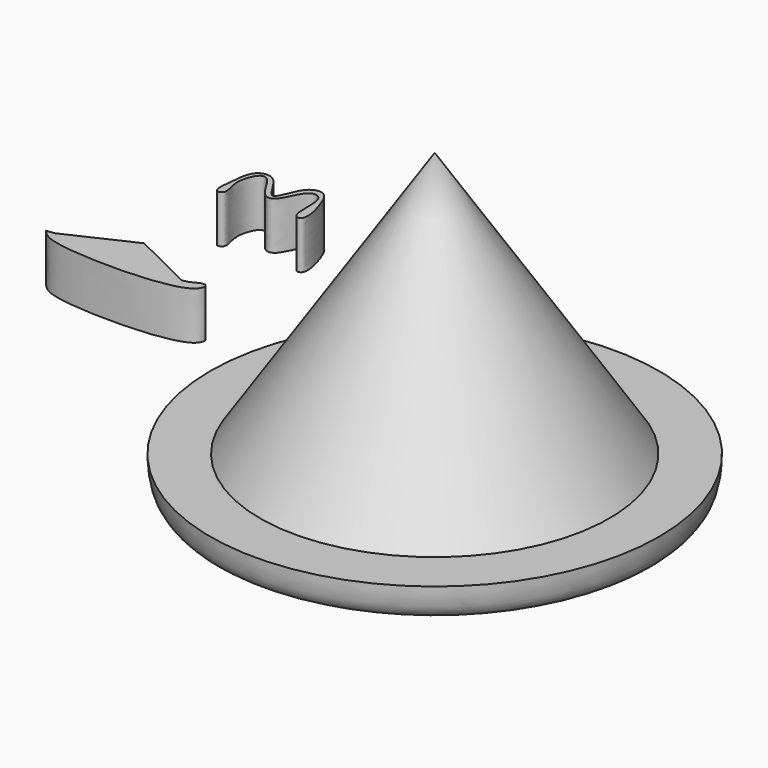
from build123d import *

# Parameters (mm, degrees)
F3_DEPTH = 11.4


with BuildPart() as f1:
    # F0 (on Front) → F1 (revolve)
    with BuildSketch(Plane.XZ):
        with BuildLine():
            Line((0, 63.2652342319), (-41.6990220547, 0))
            add(Edge.make_bspline(
                [(-53.5571835935, 0), (-49.6044630806, 0), (-45.6517425676, 0), (-41.6990220547, 0)],
                knots=[0, 0, 0, 0, 11.8581615388, 11.8581615388, 11.8581615388, 11.8581615388], degree=3))
            add(Edge.make_bspline(
                [(-53.5571835935, 0), (-53.4334371926, -2.6908141816), (-53.1402154716, -9.066798934), (-37.1676080808, -9.3806462258), (-23.1685894488, -10.1839054648), (-9.4873160883, -8.3321297601), (-2.9764906365, -6.8618515729), (0, -6.1896988191)],
                knots=[0, 0, 0, 0, 0.1580409291, 0.374483887, 0.6032630747, 0.8186276453, 1, 1, 1, 1], degree=3))
            Line((0, -6.1896988191), (0, 63.2652342319))
        make_face()
    revolve(axis=Axis((0, 0, 28.5377677064), (0, 0, -1)))


with BuildPart() as f3:
    # F2 (on Top) → F3 (new body)
    with BuildSketch(Plane.XY):
        with BuildLine():
            add(Edge.make_bspline(
                [(-84.3102112412, 40.4610857368), (-85.0529291227, 40.9958786506), (-84.5303607917, 45.7398508686), (-83.9514385702, 51.2382567246), (-78.3571226382, 52.0567477514), (-74.6691999848, 41.6802312333), (-72.6076012928, 51.9031212278), (-67.9525880261, 52.6750588018), (-66.0730074411, 49.2024115409), (-63.8207430634, 41.5170017131), (-67.5488511999, 41.120062853), (-66.6687651288, 48.7345215145), (-68.3108975024, 50.94301662), (-71.2826769252, 50.666767686), (-73.1011401395, 44.2158299469), (-76.825645086, 44.0279276792), (-79.3458870987, 50.2461534997), (-82.3364477721, 50.9255849083), (-84.3799730162, 45.1231148531), (-82.075612545, 40.7623636732), (-83.9211769694, 40.1809621838), (-84.3102112412, 40.4610857368)],
                knots=[0, 0, 0, 0, 0.0578178757, 0.1183877548, 0.1697248251, 0.2368075858, 0.3019965385, 0.3511601922, 0.4019906506, 0.4713398966, 0.5024901043, 0.5703022821, 0.6110152595, 0.6490790515, 0.7130945011, 0.7539779882, 0.8189217919, 0.8555802004, 0.9156756697, 0.9697151021, 1, 1, 1, 1], degree=3))
        make_face()
    extrude(amount=F3_DEPTH)


with BuildPart() as f3b:
    # F2 (on Top) → F3, piece 2 (new body)
    with BuildSketch(Plane.XY):
        Polygon((-66.8827426476, 8.1443404779), (-81.7040205002, 15.4416691512), (-97.341157496, 8.1443404779), align=None)
        with BuildLine():
            Line((-66.8827426476, 8.1443404779), (-97.341157496, 8.1443404779))
            add(Edge.make_bspline(
                [(-99.1654917598, 8.0140307546), (-98.5573803385, 8.057467329), (-97.9492689172, 8.1009039034), (-97.341157496, 8.1443404779)],
                knots=[0, 0, 0, 0, 1.8289822662, 1.8289822662, 1.8289822662, 1.8289822662], degree=3))
            add(Edge.make_bspline(
                [(-99.1654917598, 8.0140307546), (-98.3408898529, 7.0588085926), (-95.4990123071, 3.7667662258), (-62.0559544674, 3.5124450192), (-61.6722541601, 10.4063057996), (-64.0620025475, 9.2080926787), (-65.3599273192, 8.4739090018)],
                knots=[0, 0, 0, 0, 0.1987994554, 0.6851350983, 0.8292680694, 0.9780977849, 0.9780977849, 0.9780977849, 0.9780977849], degree=3))
            add(Edge.make_bspline(
                [(-65.3599273192, 8.4739090018), (-65.8677813455, 8.3644928742), (-66.3748886213, 8.2537566055), (-66.8827426476, 8.1443404779)],
                knots=[0, 0, 0, 0, 1.5580699396, 1.5580699396, 1.5580699396, 1.5580699396], degree=3))
        make_face()
    extrude(amount=F3_DEPTH)


solid = Compound([f1.part, f3.part, f3b.part])
